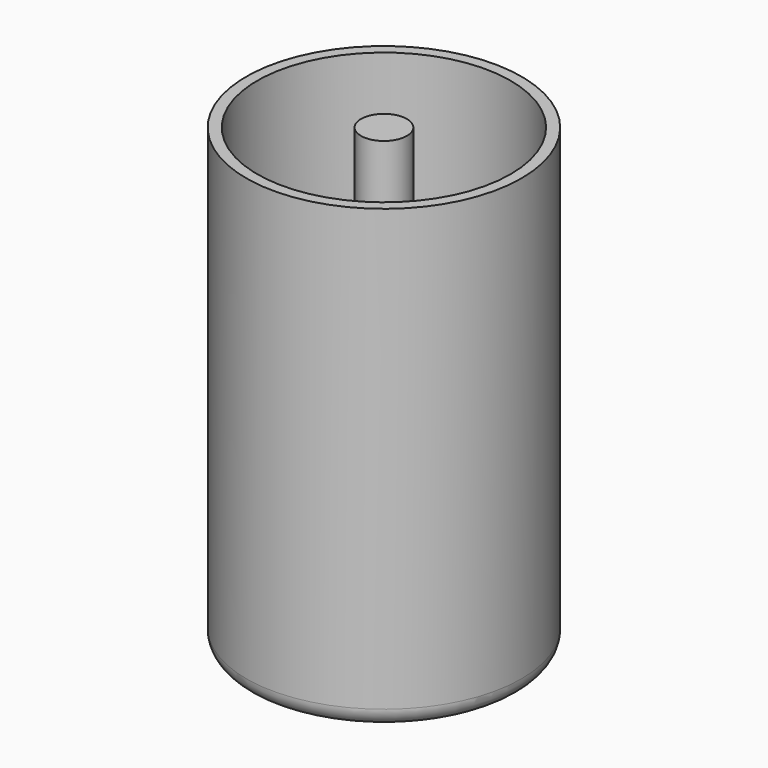
from build123d import *

# Parameters (mm, degrees)
F0_R      = 76.2
F1_DEPTH  = 127
F2_R      = 70.104
F3_DEPTH  = 241.3
F4_R      = 12.7
F5_DEPTH  = 241.3
F6_R      = 10.16
F7_W      = 50.8
F7_H      = 3.81
F9_R      = 12.7
F10_DEPTH = 177.8010001


with BuildPart() as f1:
    # F0 (on Top) → F1 (new body, symmetric)
    with BuildSketch(Plane.XY):
        Circle(F0_R)
    extrude(amount=F1_DEPTH, both=True)

    # F2 (on face) → F3 (cut)
    with BuildSketch(Plane.XY.offset(127)):
        Circle(F2_R)
    extrude(amount=-F3_DEPTH, mode=Mode.SUBTRACT)

    # F6
    f6_edges = [f1.edges().sort_by_distance(p)[0] for p in [
        (-76.2, 0, -127),
    ]]
    fillet(f6_edges, radius=F6_R)


with BuildPart() as f5:
    # F4 (on face) → F5 (new body)
    with BuildSketch(Plane.XY.offset(-114.3)):
        Circle(F4_R)
    extrude(amount=F5_DEPTH)

    # F7 (on Front) → F8 (revolve)
    with BuildSketch(Plane.XZ):
        with Locations((-25.4, 48.895)):
            Rectangle(F7_W, F7_H)
        with Locations((-25.4, -1.905)):
            Rectangle(F7_W, F7_H)
        with Locations((-25.4, -52.705)):
            Rectangle(F7_W, F7_H)
        with Locations((-25.4, -103.505)):
            Rectangle(F7_W, F7_H)
    revolve(axis=Axis((0, 0, 21.59), (0, 0, -1)))

    # F9 (on face) → F10 (cut, through all)
    with BuildSketch(Plane.XY.offset(50.8)):
        with Locations((0, 31.75)):
            Circle(F9_R)
        with Locations((-31.75, 0)):
            Circle(F9_R)
        with Locations((0, -31.75)):
            Circle(F9_R)
        with Locations((31.75, 0)):
            Circle(F9_R)
    extrude(amount=-F10_DEPTH, mode=Mode.SUBTRACT)


solid = Compound([f1.part, f5.part])
